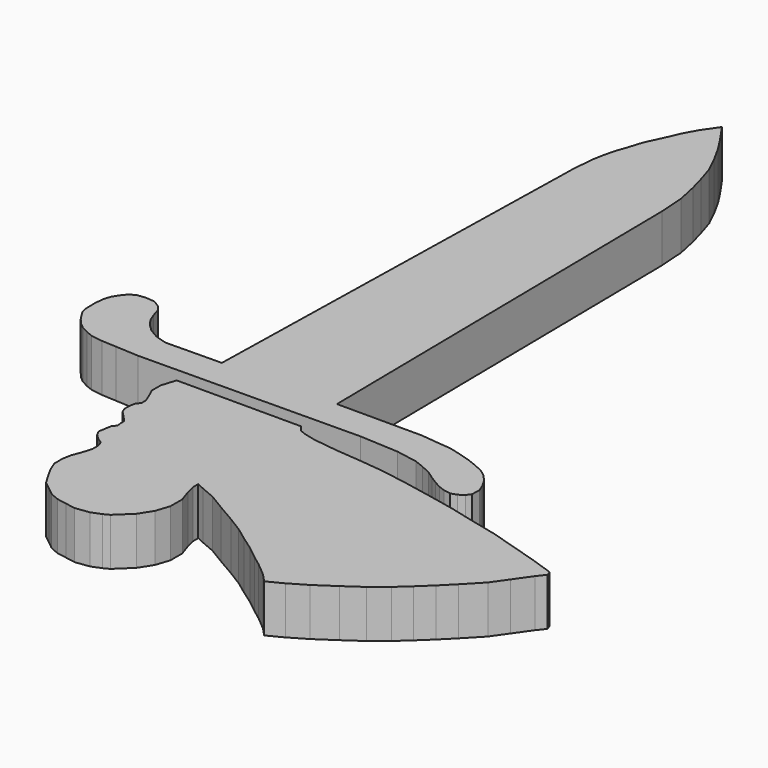
from build123d import *

# Parameters (mm, degrees)
F1_DEPTH = 3


with BuildPart() as f1:
    # F0 (on Top) → F1 (new body)
    with BuildSketch(Plane.XY):
        Polygon((-70.3221669325, -45.3945461759), (-69.9666177976, -45.2090838162), (-69.0427439409, -44.3285164592), (-68.5230640816, -43.5201266018), (-68.2343540835, -42.6539947448), (-68.2343540835, -41.7156835256), (-68.5086285817, -40.9072936682), (-68.6385480809, -40.3587428091), (-68.6385480809, -39.9545488117), (-68.162176584, -40.1710813103), (-67.2527363646, -40.5608398078), (-66.1989430087, -41.1960036663), (-65.0585347908, -41.8600385246), (-64.0769170719, -42.4663313834), (-63.2540917146, -43.0726242421), (-62.3735243576, -43.6933526007), (-61.5940055, -44.3140809593), (-60.9588416415, -44.7904543189), (-60.1504508528, -45.4689246772), (-59.6307719248, -46.0174755362), (-58.6733248207, -45.5226433633), (-57.6249722513, -44.9048654345), (-56.4268555614, -44.0998804925), (-55.3223414468, -43.3323365805), (-54.3675914529, -42.5647926686), (-53.5626065108, -41.8346897868), (-52.7686665888, -41.0827976821), (-51.9697096321, -40.2838421223), (-50.9686850133, -39.235431811), (-50.2978631417, -38.2857267914), (-49.5741160708, -37.2529105453), (-49.186890002, -36.7666269421), (-49.293195189, -36.4692305384), (-50.8598664897, -35.9367971478), (-52.2547646547, -35.518327838), (-53.9518900337, -34.9952412007), (-55.8117542538, -34.5535242168), (-57.2763968381, -34.1815502552), (-59.0539591509, -33.8112321851), (-60.9603196504, -33.4392582236), (-62.5412033993, -33.1835282204), (-64.0639679628, -33.0207889137), (-65.5634829896, -32.8929239122), (-67.0978704589, -32.6953140257), (-67.8552238392, -32.5124972669), (-68.2296360033, -32.3627331463), (-68.5478856909, -31.9883209822), (-76.3657892245, -31.9883209822), (-76.4953771728, -32.3855933902), (-76.6531841951, -32.9014920799), (-76.6531841951, -33.2231708971), (-76.6531841951, -33.5873347876), (-76.4589624601, -34.0121929703), (-76.289018442, -34.4127734361), (-76.2161852914, -34.6191321669), (-76.2161852914, -34.9468794821), (-76.4161638427, -35.1980151837), (-76.4863880473, -35.5944485573), (-76.4863880473, -35.9556378035), (-76.3604229438, -36.262607312), (-76.061323111, -36.5695786832), (-75.8167727041, -36.8328915147), (-75.6701527285, -37.0137226937), (-75.6701527285, -37.2529105453), (-75.6297221529, -37.556514254), (-75.8322919717, -37.8109041035), (-75.9003969331, -38.1953738139), (-75.9773060156, -38.629545012), (-75.7932735729, -38.9696286229), (-75.501076703, -39.2442905513), (-75.1614997285, -39.4792855886), (-75.04127716, -39.7957955656), (-75.04127716, -40.3040816245), (-75.2272194373, -40.9005080519), (-75.4457188892, -41.4710325358), (-75.5409604083, -42.0086949691), (-75.5409604083, -42.6581689326), (-75.2990411716, -43.2651081292), (-74.950184499, -43.8951590268), (-74.5787451165, -44.5109644143), (-74.074771553, -44.9122769417), (-73.6038192508, -45.2872947449), (-73.0656383681, -45.5218498764), (-72.4414193923, -45.6324240208), (-71.7933583319, -45.7472215517), (-70.9127720683, -45.629954837), align=None)
    extrude(amount=F1_DEPTH)


with BuildPart() as f1b:
    # F0 (on Top) → F1, piece 2 (new body)
    with BuildSketch(Plane.XY):
        Polygon((-68.6385480809, -29.0339962748), (-68.6385480809, -28.9210007695), (-68.9798461395, -3.0179024843), (-69.0908877301, -1.3584979979), (-69.3622322875, -0.092227122), (-69.6235222864, 0.8615217002), (-69.9666177976, 1.9468924793), (-70.4561526078, 2.9525345953), (-70.9916546341, 3.9196754266), (-71.4934075373, 4.699576536), (-72.2899938124, 5.8495363983), (-72.9787385213, 4.8425233754), (-73.3972078311, 4.0753296407), (-73.76917993, 3.2269716652), (-74.2806417989, 2.1340957674), (-74.5571923665, 1.247035173), (-74.7314261394, 0.747654477), (-74.8243433417, 0.4496142691), (-74.9884169779, -0.2300921423), (-75.0947099098, -0.8301425922), (-75.2073867861, -2.1515414667), (-75.7932735729, -28.8962126879), (-75.7932735729, -29.142856708), (-79.3372653278, -29.189552184), (-80.0659310153, -28.962382912), (-80.656396051, -28.6141597835), (-81.0907560912, -28.2058659974), (-81.39926364, -27.7660117654), (-81.6045903549, -27.250877735), (-81.7722898013, -26.7203663386), (-82.0683183591, -26.3552647013), (-82.4938319246, -26.1043206894), (-83.0837128021, -26.0540210138), (-83.6156132866, -26.1248536227), (-83.9706378179, -26.3552647013), (-84.2613670771, -26.7203663386), (-84.4688471677, -27.0721802448), (-84.5941569043, -27.4741223939), (-84.6541785429, -28.0357496132), (-84.6447282005, -28.7529911612), (-84.5567265647, -29.1715935973), (-84.3535715836, -29.5007639734), (-84.1336378949, -29.8379921524), (-83.8299522298, -30.1967227069), (-83.4829488891, -30.4801912216), (-83.0528641241, -30.7098944841), (-82.6032253104, -30.8858399449), (-81.8686911958, -30.9974570928), (-80.9498706954, -31.0463310389), (-79.5010863898, -31.1233948462), (-65.5738709616, -30.9974123893), (-63.1342664121, -31.1271799567), (-61.7987083393, -31.36767458), (-61.1941737423, -31.6042313785), (-60.5685215565, -31.8998956291), (-60.0647756952, -32.2501567362), (-59.6572168293, -32.5098076073), (-59.2093689733, -32.7489979297), (-58.7682183797, -32.9216219162), (-58.337376614, -32.9870910729), (-57.9808548215, -32.871471828), (-57.6482507595, -32.6545538989), (-57.453021233, -32.3876255361), (-57.4236035102, -31.8345781761), (-57.5947545591, -31.4052664844), (-57.8879712271, -30.8837612329), (-58.2828519988, -30.4406025616), (-58.6882650965, -30.1440862744), (-59.2050476121, -29.9018622545), (-59.9241939167, -29.6204574379), (-60.575660144, -29.4303746132), (-61.3076666492, -29.233597329), (-62.1656084555, -29.1548893956), (-63.2847452658, -29.0339962748), align=None)
    extrude(amount=F1_DEPTH)


solid = Compound([f1.part, f1b.part])
